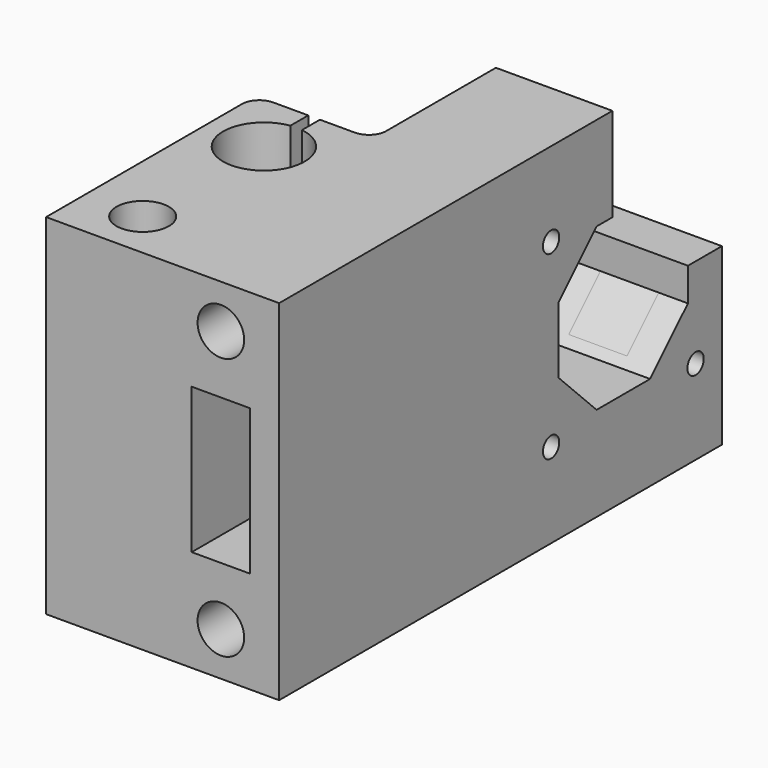
from build123d import *

# Parameters (mm, degrees)
SKETCH060_W              = 45
SKETCH060_H              = 20
SKETCH060_R              = 4.5
SKETCH060_R_2            = 7
PAD033_DEPTH             = 60
SKETCH061_W              = 4
SKETCH061_H              = 2
POCKET031_DEPTH          = 60.001
POCKET031_FACE6_W        = 45
POCKET031_FACE6_H        = 60
PAD034_DEPTH             = 20
SKETCH062_W              = 10
SKETCH062_H              = 25
POCKET032_DEPTH          = 47
SKETCH063_R              = 4
POCKET033_DEPTH          = 20
POCKET033_FACE21_W       = 20
POCKET033_FACE21_H       = 60
POCKET033_FACE21_W_2     = 10
POCKET033_FACE21_H_2     = 25
PAD035_DEPTH             = 50
FILLET004_R              = 3
FILLET005_R              = 3
SKETCH064_R              = 1.75
POCKET034_DEPTH          = 20.001
SKETCH065_W              = 23.5
SKETCH065_H              = 30
POCKET035_DEPTH          = 20.001
POCKET035_FACE41_W       = 10
POCKET035_FACE41_H       = 14.1015555269
PAD036_DEPTH             = 12.5
POCKET036_DEPTH          = 35.001
BODY019_PLACEMENT_ANGLE  = 180
CLONE047_PLACEMENT_ANGLE = 90


with BuildPart() as part:
    # Sketch060 → Pad033 (new body)
    with BuildSketch(Plane.XY):
        Rectangle(SKETCH060_W, SKETCH060_H)
        with Locations((-14.26955, 0)):
            Circle(SKETCH060_R, mode=Mode.SUBTRACT)
        with Locations((11.73045, 0)):
            Circle(SKETCH060_R_2, mode=Mode.SUBTRACT)
    extrude(amount=PAD033_DEPTH)

    # Sketch061 (on Face8 of Pad033) → Pocket031 (cut, through all)
    with BuildSketch(Plane.XY.offset(60)):
        with Locations((20.51, 0)):
            Rectangle(SKETCH061_W, SKETCH061_H)
    extrude(amount=-POCKET031_DEPTH, mode=Mode.SUBTRACT)

    # Pocket031 Face6 → Pad034 (add)
    with BuildSketch(Plane(origin=(0, -10, 30), x_dir=(-1, 0, 0), z_dir=(0, -1, 0))):
        Rectangle(POCKET031_FACE6_W, POCKET031_FACE6_H)
    extrude(amount=PAD034_DEPTH)

    # Sketch062 (on Face6 of Pad034) → Pocket032 (cut)
    with BuildSketch(Plane(origin=(-22.5, 0, 0), x_dir=(0, -1, 0), z_dir=(-1, 0, 0))):
        with Locations((20, 30)):
            Rectangle(SKETCH062_W, SKETCH062_H)
    extrude(amount=-POCKET032_DEPTH, mode=Mode.SUBTRACT)

    # Sketch063 (on Face6 of Pocket032) → Pocket033 (cut)
    with BuildSketch(Plane(origin=(-22.5, 0, 0), x_dir=(0, -1, 0), z_dir=(-1, 0, 0))):
        with Locations((20, 52.5)):
            Circle(SKETCH063_R)
        with Locations((20, 7.5)):
            Circle(SKETCH063_R)
    extrude(amount=-POCKET033_DEPTH, mode=Mode.SUBTRACT)

    # Pocket033 Face21 → Pad035 (add)
    with BuildSketch(Plane(origin=(22.5, -20, 30), x_dir=(0, -1, 0), z_dir=(1, 0, 0))):
        Rectangle(POCKET033_FACE21_W, POCKET033_FACE21_H)
        Rectangle(POCKET033_FACE21_W_2, POCKET033_FACE21_H_2, mode=Mode.SUBTRACT)
    extrude(amount=PAD035_DEPTH)

    # Fillet004
    fillet004_edges = [part.edges().sort_by_distance(p)[0] for p in [
        (22.5, -10, 30),
    ]]
    fillet(fillet004_edges, radius=FILLET004_R)

    # Fillet005
    fillet005_edges = [part.edges().sort_by_distance(p)[0] for p in [
        (22.5, 10, 30),
    ]]
    fillet(fillet005_edges, radius=FILLET005_R)

    # Sketch064 (on Face16 of Fillet005) → Pocket034 (cut, through all)
    with BuildSketch(Plane(origin=(0, -10, 0), x_dir=(-1, 0, 0), z_dir=(0, 1, 0))):
        with Locations((-35.85, 45.55)):
            Circle(SKETCH064_R)
        with Locations((-66.85, 45.55)):
            Circle(SKETCH064_R)
        with Locations((-66.85, 14.55)):
            Circle(SKETCH064_R)
        with Locations((-35.85, 14.55)):
            Circle(SKETCH064_R)
        Polygon((-37.4918070123, 35.7902514855), (-45.6097485145, 43.9081929877), (-57.0902514855, 43.9081929877), (-65.2081929877, 35.7902514855), (-65.2081929877, 24.3097485145), (-57.0902514855, 16.1918070123), (-45.6097485145, 16.1918070123), (-37.4918070123, 24.3097485145), align=None)
    extrude(amount=-POCKET034_DEPTH, mode=Mode.SUBTRACT)

    # Sketch065 (on Face16 of Pocket034) → Pocket035 (cut, through all)
    with BuildSketch(Plane(origin=(0, -10, 0), x_dir=(-1, 0, 0), z_dir=(0, 1, 0))):
        with Locations((-60.75, 45)):
            Rectangle(SKETCH065_W, SKETCH065_H)
    extrude(amount=-POCKET035_DEPTH, mode=Mode.SUBTRACT)

    # Pocket035 Face41 → Pad036 (add)
    with BuildSketch(Plane(origin=(65.4492222366, -20, 17.5), x_dir=(0, 1, 0), z_dir=(0, 0, 1))):
        Rectangle(POCKET035_FACE41_W, POCKET035_FACE41_H)
    extrude(amount=PAD036_DEPTH)

    # Pad036 Face50 → Pocket036 (cut, through all)
    with BuildSketch(Plane(origin=(61.3784329533, -25, 25.2399942401), x_dir=(-1, 0, 0), z_dir=(0, -1, 0))):
        Polygon((2.9799884801, 7.7399942401), (-3.8297600344, 0.9302457255), (-3.8297600344, -4.7600057599), (2.9799884801, -4.7600057599), align=None)
    extrude(amount=-POCKET036_DEPTH, mode=Mode.SUBTRACT)


with BuildPart() as part_1:
    # Body019 placement: moved
    add(part.part.moved(Location((-73, 0, 0))).rotate(Axis((-73, 0, 0), (0, 0, 1)), BODY019_PLACEMENT_ANGLE))


with BuildPart() as part_2:
    # Clone047 placement: moved
    add(part_1.part.moved(Location((-310, -84, 92))).rotate(Axis((-310, -84, 92), (0, 0, -1)), CLONE047_PLACEMENT_ANGLE))


solid = part_2.part
